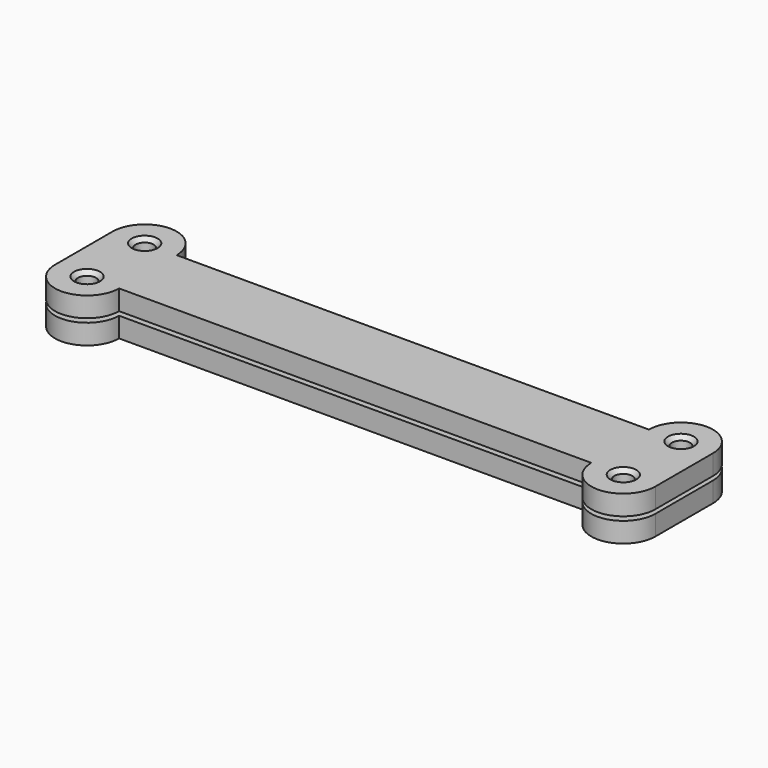
from build123d import *

# Parameters (mm, degrees)
SKETCH_W                = 72
SKETCH_H                = 12
PAD_DEPTH               = 2
SKETCH001_W             = 32
SKETCH001_H             = 12
PAD001_DEPTH            = 5
SKETCH002_R             = 2.25
PAD002_DEPTH            = 5
SKETCH003_W             = 118
SKETCH003_H             = 13
POCKET_DEPTH            = 3
SKETCH004_R             = 2
POCKET001_DEPTH         = 16
CHAMFER_SIZE            = 1
BODY003_PLACEMENT_ANGLE = 180
POCKET002_DEPTH         = 2


with BuildPart() as led_strip:
    # Sketch → Pad (new body)
    with BuildSketch(Plane.XY):
        Rectangle(SKETCH_W, SKETCH_H)
    extrude(amount=PAD_DEPTH)


with BuildPart() as led_strip_1:
    # Body placement: moved
    add(led_strip.part.moved(Location((0, 0, 2))))


with BuildPart() as controller:
    # Sketch001 → Pad001 (new body)
    with BuildSketch(Plane.XY):
        with Locations((-62, 0)):
            Rectangle(SKETCH001_W, SKETCH001_H)
    extrude(amount=PAD001_DEPTH)


with BuildPart() as controller_1:
    # Body001 placement: moved
    add(controller.part.moved(Location((0, 0, 2))))


with BuildPart() as base:
    # Sketch002 → Pad002 (new body)
    with BuildSketch(Plane.XY):
        with BuildLine():
            Line((-80, 9), (38, 9))
            ThreePointArc((54, 9), (46, 17), (38, 9))
            Line((54, -9), (54, 9))
            ThreePointArc((38, -9), (46, -17), (54, -9))
            Line((38, -9), (-80, -9))
            ThreePointArc((-96, -9), (-88, -17), (-80, -9))
            Line((-96, -9), (-96, 9))
            ThreePointArc((-80, 9), (-88, 17), (-96, 9))
        make_face()
        with Locations((-88, 9)):
            Circle(SKETCH002_R, mode=Mode.SUBTRACT)
        with Locations((-88, -9)):
            Circle(SKETCH002_R, mode=Mode.SUBTRACT)
        with Locations((46, 9)):
            Circle(SKETCH002_R, mode=Mode.SUBTRACT)
        with Locations((46, -9)):
            Circle(SKETCH002_R, mode=Mode.SUBTRACT)
    extrude(amount=PAD002_DEPTH)

    # Sketch003 (on Face14 of Pad002) → Pocket (cut)
    with BuildSketch(Plane.XY.offset(5)):
        with Locations((-21, 0)):
            Rectangle(SKETCH003_W, SKETCH003_H)
    extrude(amount=-POCKET_DEPTH, mode=Mode.SUBTRACT)

    # Sketch004 (on Face1 of Pocket) → Pocket001 (cut)
    with BuildSketch(Plane(origin=(-96, 0, 0), x_dir=(0, -1, 0), z_dir=(-1, 0, 0))):
        with Locations((0, 5)):
            Circle(SKETCH004_R)
    extrude(amount=-POCKET001_DEPTH, mode=Mode.SUBTRACT)


with BuildPart() as sopra:
    # Body003 base: copy of base
    add(base.part)

    # Chamfer
    chamfer_edges = [sopra.edges().sort_by_distance(p)[0] for p in [
        (-90.25, -9, 0),
        (-90.25, 9, 0),
        (43.75, -9, 0),
        (43.75, 9, 0),
    ]]
    chamfer(chamfer_edges, length=CHAMFER_SIZE)


with BuildPart() as sopra_1:
    # Body003 placement: moved
    add(sopra.part.moved(Location((0, 0, 11))).rotate(Axis((0, 0, 11), (1, 0, 0)), BODY003_PLACEMENT_ANGLE))


with BuildPart() as sotto:
    # Body004 base: copy of base
    add(base.part)

    # Sketch005 (on Face2 of Clone001) → Pocket002 (cut)
    with BuildSketch(Plane(origin=(0, 0, 0), x_dir=(1, 0, 0), z_dir=(0, 0, -1))):
        Polygon((-84.535898, 7), (-84.535898, 11), (-88, 13), (-91.464102, 11), (-91.464102, 7), (-88, 5), align=None)
        Polygon((-84.535898, -11), (-84.535898, -7), (-88, -5), (-91.464102, -7), (-91.464102, -11), (-88, -13), align=None)
        Polygon((46, 5), (49.464102, 7), (49.464102, 11), (46, 13), (42.535898, 11), (42.535898, 7), align=None)
        Polygon((49.464102, -11), (49.464102, -7), (46, -5), (42.535898, -7), (42.535898, -11), (46, -13), align=None)
    extrude(amount=-POCKET002_DEPTH, mode=Mode.SUBTRACT)


solid = Compound([led_strip_1.part, controller_1.part, sopra_1.part, sotto.part])
